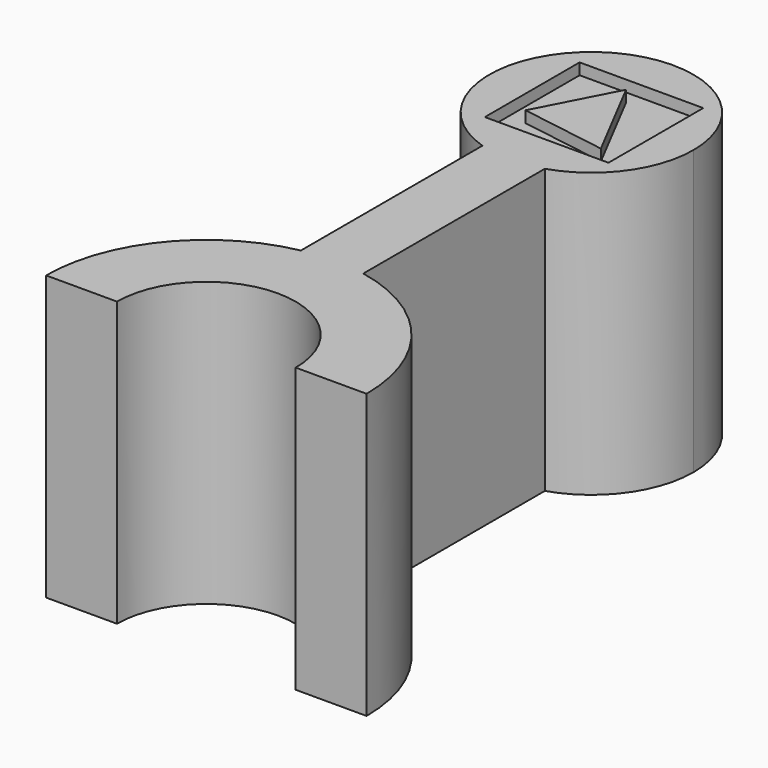
from build123d import *

# Parameters (mm, degrees)
F1_DEPTH = 12.7
F5_W     = 5.536682
F5_H     = 5.304604
F6_DEPTH = 0.508


with BuildPart() as f1:
    # F0 (on Top) → F1 (new body)
    with BuildSketch(Plane.XY):
        with BuildLine():
            ThreePointArc((-4.0005, 0), (0, 4.0005), (4.0005, 0))
            Line((4.0005, 0), (7.1755, 0))
            ThreePointArc((7.1755, 0), (5.545808, 4.55322), (1.397, 7.038195))
            ThreePointArc((1.397, 7.038195), (0, 7.1755), (-1.397, 7.038195))
            ThreePointArc((-1.397, 7.038195), (-5.545808, 4.55322), (-7.1755, 0))
            Line((-7.1755, 0), (-4.0005, 0))
        make_face()
        with BuildLine():
            ThreePointArc((-1.397, 7.038195), (0, 7.1755), (1.397, 7.038195))
            Line((1.397, 7.038195), (1.397, 17.198195))
            ThreePointArc((1.397, 17.198195), (0, 16.979536), (-1.397, 17.198195))
            Line((-1.397, 17.198195), (-1.397, 7.038195))
        make_face()
        with BuildLine():
            ThreePointArc((-1.397, 17.198195), (0, 16.979536), (1.397, 17.198195))
            ThreePointArc((1.397, 17.198195), (3.693932, 18.857459), (4.572, 21.551536))
            ThreePointArc((4.572, 21.551536), (-2.694077, 25.245468), (-1.397, 17.198195))
        make_face()
    extrude(amount=F1_DEPTH)

    # F5 (on face) → F6 (cut)
    with BuildSketch(Plane.XY.offset(12.7)):
        with Locations((0.082884, 21.596698)):
            Rectangle(F5_W, F5_H)
        Polygon((1.972948, 19.615073), (-1.894391, 20.235734), (-0.124343, 23.64842), align=None, mode=Mode.SUBTRACT)
    extrude(amount=-F6_DEPTH, mode=Mode.SUBTRACT)


solid = f1.part
